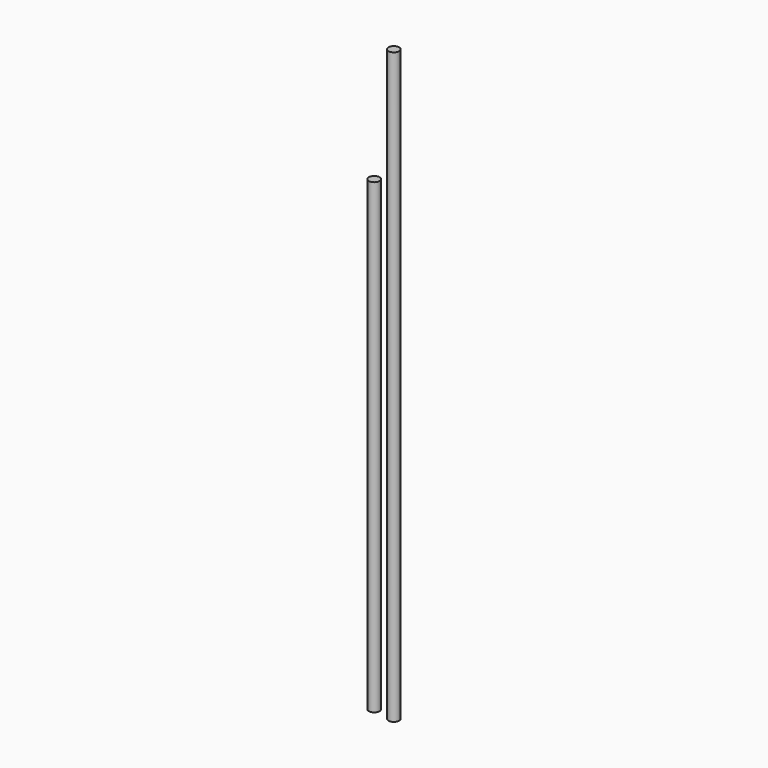
from build123d import *

# Parameters (mm, degrees)
F0_R     = 4
F1_DEPTH = 350
F2_DEPTH = 442


with BuildPart() as f1:
    # F0 (on Top) → F1 (new body)
    with BuildSketch(Plane.XY):
        Circle(F0_R)
    extrude(amount=F1_DEPTH)


with BuildPart() as f2:
    # F0 (on Top) → F2 (new body)
    with BuildSketch(Plane.XY):
        with Locations((16.458958, -2.248807)):
            Circle(F0_R)
    extrude(amount=F2_DEPTH)


solid = Compound([f1.part, f2.part])
